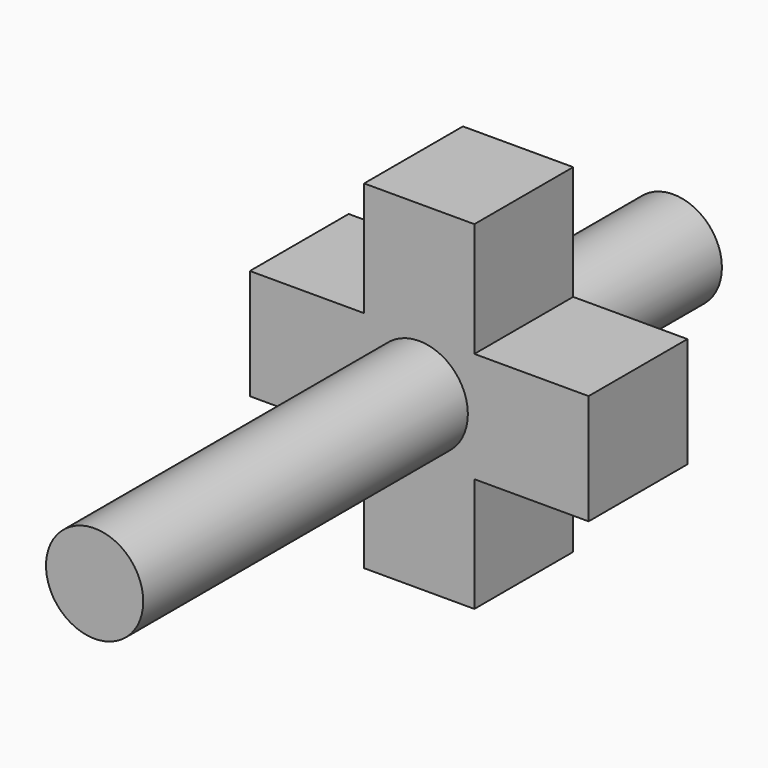
from build123d import *

# Parameters (mm, degrees)
F0_R     = 3.5
F1_DEPTH = 8.89
F2_DEPTH = 38.1
F3_DEPTH = 13.97


with BuildPart() as f1:
    # F0 (on Front) → F1 (new body)
    with BuildSketch(Plane.XZ):
        Polygon((12.192, -3.96875), (12.192, 3.96875), (3.96875, 3.96875), (3.96875, 12.192), (-3.96875, 12.192), (-3.96875, 3.96875), (-12.192, 3.96875), (-12.192, -3.96875), (-3.96875, -3.96875), (-3.96875, -12.192), (3.96875, -12.192), (3.96875, -3.96875), align=None)
        Circle(F0_R, mode=Mode.SUBTRACT)
    extrude(amount=F1_DEPTH)

    # F0 (on Front) → F2 (join)
    with BuildSketch(Plane.XZ):
        Circle(F0_R)
    extrude(amount=F2_DEPTH)

    # F0 (on Front) → F3 (join)
    with BuildSketch(Plane.XZ):
        Circle(F0_R)
    extrude(amount=-F3_DEPTH)


solid = f1.part
